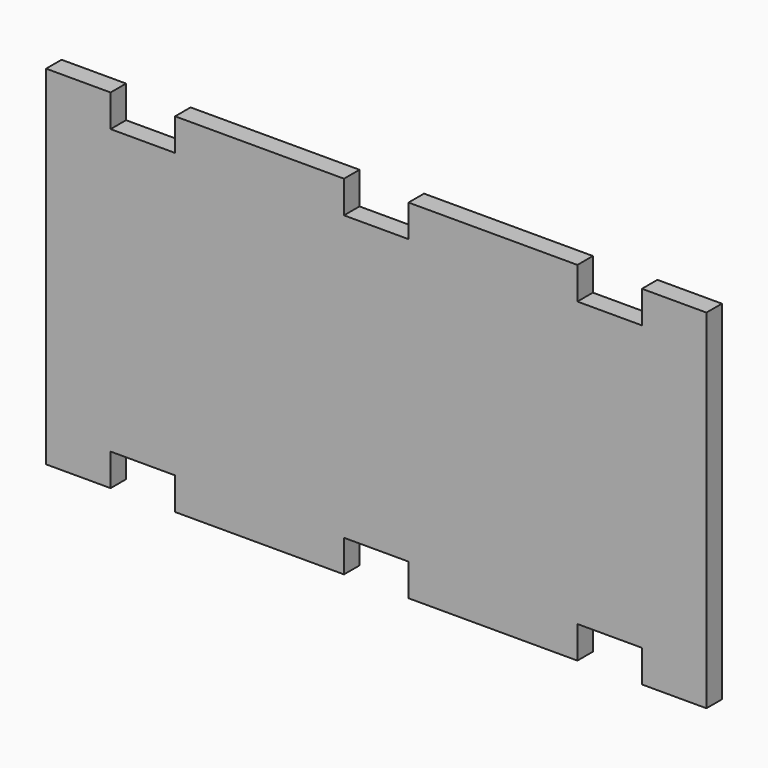
from build123d import *

# Parameters (mm, degrees)
F1_DEPTH = 3.81


with BuildPart() as f1:
    # F0 (on Front) → F1 (new body)
    with BuildSketch(Plane.XZ):
        Polygon((-52.3, 34.29), (-65, 34.29), (-65, 0), (-65, -34.29), (-52.3, -34.29), (-52.3, -27.94), (-39.6, -27.94), (-39.6, -34.29), (-6.35, -34.29), (-6.35, -27.94), (6.35, -27.94), (6.35, -34.29), (39.6, -34.29), (39.6, -27.94), (52.3, -27.94), (52.3, -34.29), (65, -34.29), (65, 0), (65, 34.29), (52.3, 34.29), (52.3, 27.94), (39.6, 27.94), (39.6, 34.29), (6.35, 34.29), (6.35, 27.94), (-6.35, 27.94), (-6.35, 34.29), (-39.6, 34.29), (-39.6, 27.94), (-52.3, 27.94), align=None)
    extrude(amount=F1_DEPTH)


solid = f1.part
